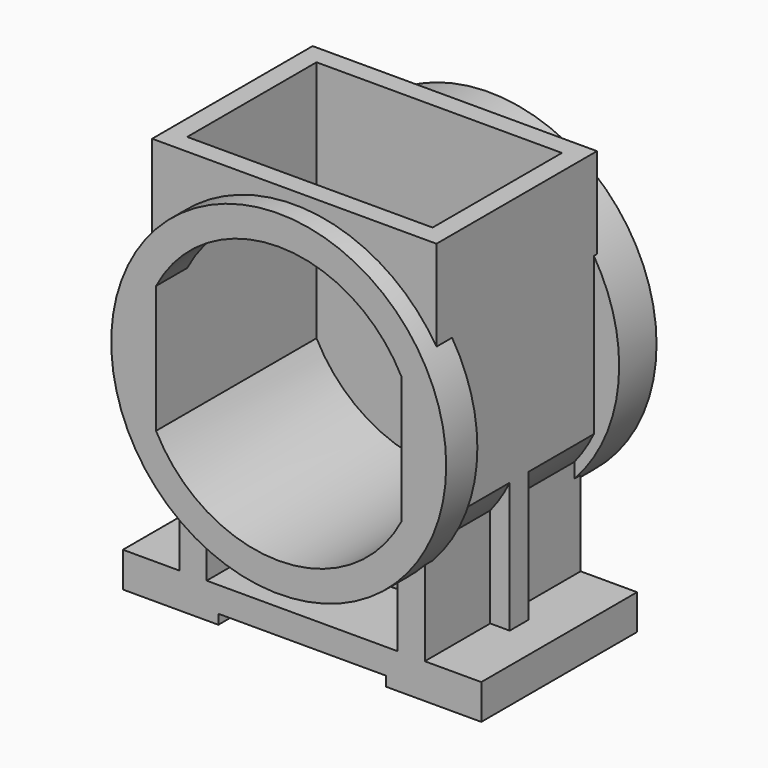
from build123d import *

# Parameters (mm, degrees)
F0_W      = 184
F0_H      = 100
F1_DEPTH  = 18
F2_W      = 86
F2_H      = 21.7137943208
F3_DEPTH  = 100.001
F5_DEPTH  = 92
F7_DEPTH  = 100
F8_R      = 86
F9_DEPTH  = 20
F10_START = -111
F10_DEPTH = 24
F12_W     = 146
F12_H     = 103
F13_DEPTH = 92
F15_DEPTH = 103
F16_W     = 126
F16_H     = 83
F17_DEPTH = 59.2595889125


with BuildPart() as f1:
    # F0 (on Top) → F1 (new body)
    with BuildSketch(Plane.XY):
        with Locations((0, 65)):
            Rectangle(F0_W, F0_H)
    extrude(amount=F1_DEPTH)

    # F2 (on face) → F3 (cut, through all)
    with BuildSketch(Plane.XZ.offset(-15)):
        with Locations((0, -5.8568971604)):
            Rectangle(F2_W, F2_H)
    extrude(amount=-F3_DEPTH, mode=Mode.SUBTRACT)

    # F4 (on face) → F5 (join)
    with BuildSketch(Plane.XY.offset(18)):
        Polygon((-63, 57), (-63, 15), (-49, 15), (-49, 57), (0, 57), (49, 57), (49, 15), (63, 15), (63, 57), (73, 57), (73, 69), (63, 69), (63, 115), (49, 115), (49, 69), (0, 69), (-49, 69), (-49, 115), (-63, 115), (-63, 69), (-73, 69), (-73, 57), align=None)
    extrude(amount=F5_DEPTH)

    # F6 (on face) → F7 (join)
    with BuildSketch(Plane.XZ.offset(-15)):
        with BuildLine():
            Line((-73, 120), (-73, 84.9001424504))
            ThreePointArc((-73, 84.9001424504), (0, 39), (73, 84.9001424504))
            Line((73, 84.9001424504), (73, 120))
            Line((73, 120), (-73, 120))
        make_face()
    extrude(amount=-F7_DEPTH)

    # F8 (on Front) → F9 (join)
    with BuildSketch(Plane.XZ):
        with Locations((0, 120)):
            Circle(F8_R)
    extrude(amount=-F9_DEPTH)

    # F8 (on Front) → F10 (join)
    with BuildSketch(Plane.XZ.offset(F10_START)):
        with Locations((0, 120)):
            Circle(F8_R)
    extrude(amount=-F10_DEPTH)

    # F12 (on offset) → F13 (join, through all)
    with BuildSketch(Plane.XY.offset(212)):
        with Locations((0, 61.5)):
            Rectangle(F12_W, F12_H)
    extrude(amount=-F13_DEPTH)

    # F14 (on face) → F15 (cut)
    with BuildSketch(Plane.XZ):
        with BuildLine():
            Line((-63, 152.7414110875), (-63, 87.2585889125))
            ThreePointArc((-63, 87.2585889125), (0, 49), (63, 87.2585889125))
            Line((63, 87.2585889125), (63, 152.7414110875))
            ThreePointArc((63, 152.7414110875), (0, 191), (-63, 152.7414110875))
        make_face()
    extrude(amount=-F15_DEPTH, mode=Mode.SUBTRACT)

    # F16 (on face) → F17 (cut, through all)
    with BuildSketch(Plane.XY.offset(212)):
        with Locations((0, 61.5)):
            Rectangle(F16_W, F16_H)
    extrude(amount=-F17_DEPTH, mode=Mode.SUBTRACT)


solid = f1.part
